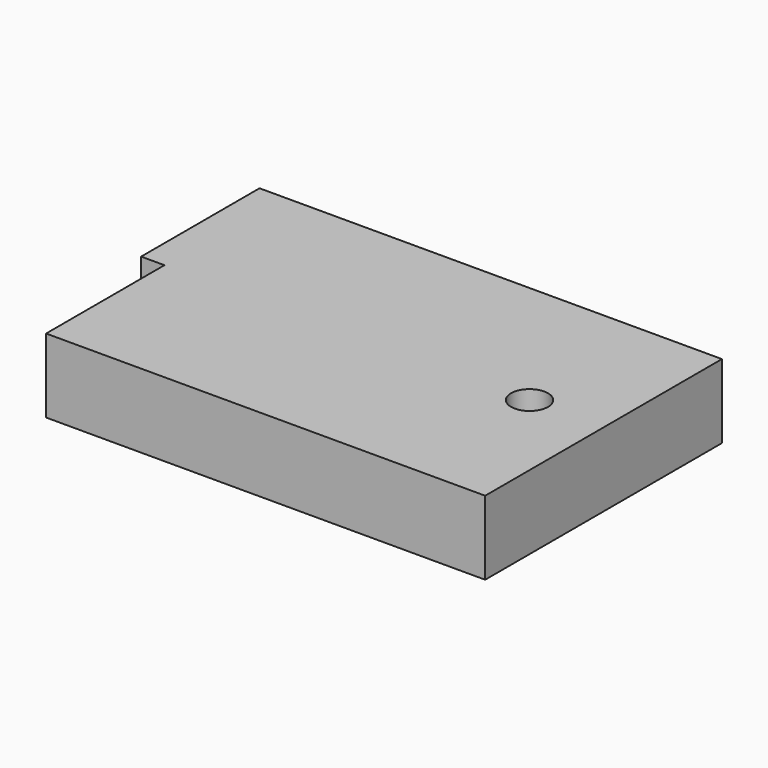
from build123d import *

# Parameters (mm, degrees)
F0_W     = 39.6875
F0_H     = 25.4
F1_DEPTH = 6.35
F2_W     = 12.7
F2_H     = 6.35
F3_DEPTH = 2
F4_R     = 1.5875
F5_DEPTH = 25.4


with BuildPart() as f1:
    # F0 (on Top) → F1 (new body)
    with BuildSketch(Plane.XY):
        with Locations((19.84375, 12.7)):
            Rectangle(F0_W, F0_H)
    extrude(amount=F1_DEPTH)

    # F2 (on face) → F3 (cut)
    with BuildSketch(Plane(origin=(0, 0, 0), x_dir=(0, -1, 0), z_dir=(-1, 0, 0))):
        with Locations((-6.35, 3.175)):
            Rectangle(F2_W, F2_H)
    extrude(amount=-F3_DEPTH, mode=Mode.SUBTRACT)

    # F4 (on face) → F5 (cut)
    with BuildSketch(Plane.XY.offset(6.35)):
        with Locations((33.3375, 12.7)):
            Circle(F4_R)
    extrude(amount=-F5_DEPTH, mode=Mode.SUBTRACT)


solid = f1.part
